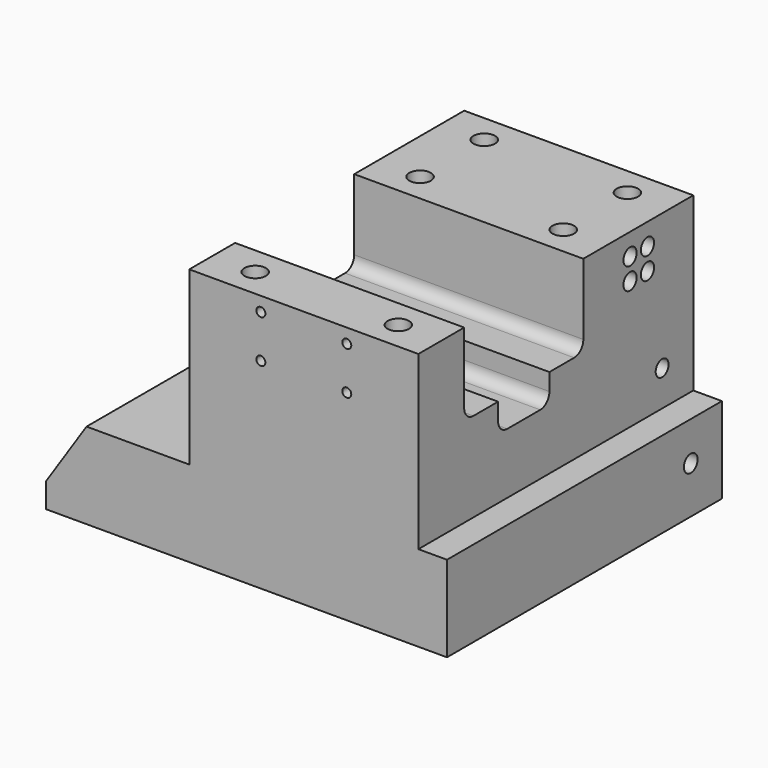
from build123d import *

# Parameters (mm, degrees)
F0_W            = 50.8
F0_H            = 38.1
F1_DEPTH        = 76.2
F3_DEPTH        = 82.551
F4_D            = 3.6576
F5_D            = 3.5687
F7_D            = 3.7973
F9_D            = 1.9939
F9_DEPTH        = 6.1595
F9_TIP          = 0.5990279941
F11_D           = 2.7051
F11_DEPTH       = 6.35
F11_CBORE_D     = 4.7625
F11_CBORE_DEPTH = 3.81
F11_TIP         = 0.8126940303


with BuildPart() as f1:
    # F0 (on Front) → F1 (new body)
    with BuildSketch(Plane.XZ):
        Polygon((0, 5.4856264032), (0, 0), (88.9, 0), (88.9, 19.05), (82.55, 19.05), (31.75, 19.05), (8.9698585882, 19.05), align=None)
        with Locations((57.15, 38.1)):
            Rectangle(F0_W, F0_H)
    extrude(amount=-F1_DEPTH)

    # F2 (on face) → F3 (cut, through all)
    with BuildSketch(Plane.YZ.offset(82.55)):
        with BuildLine():
            Line((45.72, 57.15), (12.7, 57.15))
            Line((12.7, 57.15), (12.7, 41.402))
            ThreePointArc((12.7, 41.402), (13.4439487758, 39.6059487758), (15.24, 38.862))
            Line((15.24, 38.862), (22.098, 38.862))
            Line((22.098, 38.862), (22.098, 35.052))
            ThreePointArc((22.098, 35.052), (22.8419487758, 33.2559487758), (24.638, 32.512))
            Line((24.638, 32.512), (33.782, 32.512))
            ThreePointArc((33.782, 32.512), (35.5780512242, 33.2559487758), (36.322, 35.052))
            Line((36.322, 35.052), (36.322, 38.862))
            Line((36.322, 38.862), (43.18, 38.862))
            ThreePointArc((43.18, 38.862), (44.9760512242, 39.6059487758), (45.72, 41.402))
            Line((45.72, 41.402), (45.72, 57.15))
        make_face()
    extrude(amount=-F3_DEPTH, mode=Mode.SUBTRACT)

    # F4 (through all)
    with Locations(Plane.YZ.offset(82.55)):
        with Locations((58.674, 52.324), (63.5, 52.324), (63.5, 47.498), (58.674, 47.498)):
            Hole(F4_D / 2)

    # F5 (through all)
    with Locations(Plane.YZ.offset(82.55)):
        with Locations((67.564, 26.924)):
            Hole(F5_D / 2)

    # F7 (through all)
    with Locations(Plane.YZ.offset(88.9)):
        with Locations((67.564, 10.414)):
            Hole(F7_D / 2)

    # F9
    with Locations(Plane.XZ):
        with Locations((47.625, 53.975), (66.675, 53.975), (66.675, 44.45), (47.625, 44.45)):
            Hole(F9_D / 2, depth=F9_DEPTH)
            with Locations((0, 0, -(F9_DEPTH + F9_TIP / 2))):  # 118° drill point
                Cone(0, F9_D / 2, F9_TIP, mode=Mode.SUBTRACT)

    # F11
    with Locations(Plane.XY.offset(57.15)):
        with Locations((41.275, 69.85), (41.275, 52.07), (73.025, 69.85), (73.025, 52.07), (73.025, 6.35), (41.275, 6.35)):
            CounterBoreHole(F11_D / 2, F11_CBORE_D / 2, F11_CBORE_DEPTH, depth=F11_DEPTH)
            with Locations((0, 0, -(F11_DEPTH + F11_TIP / 2))):  # 118° drill point
                Cone(0, F11_D / 2, F11_TIP, mode=Mode.SUBTRACT)


solid = f1.part
